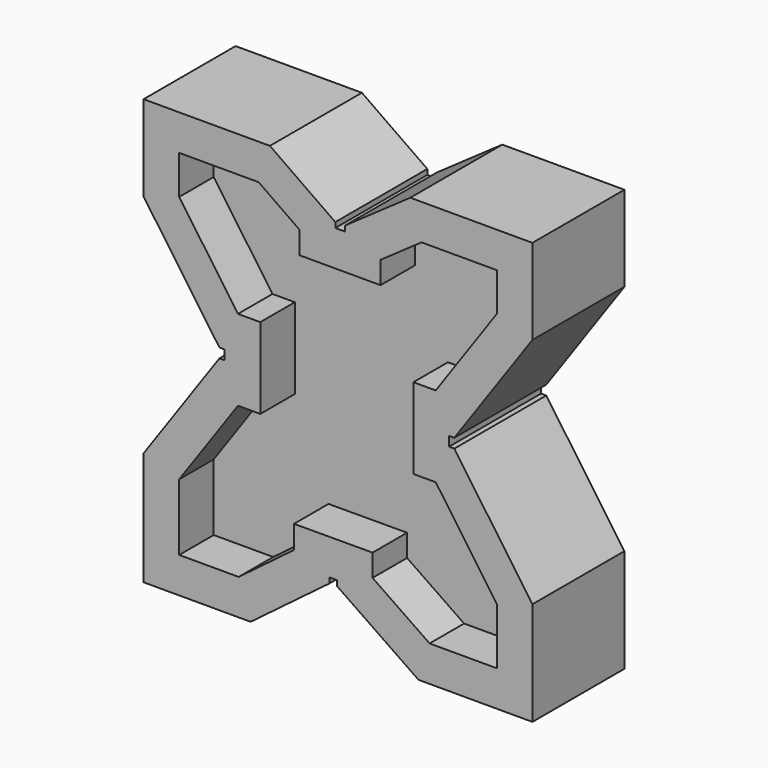
from build123d import *

# Parameters (mm, degrees)
F1_DEPTH = 25.4
F3_DEPTH = 19.05
F5_DEPTH = 19.05


with BuildPart() as f1:
    # F0 (on Front) → F1 (new body, symmetric)
    with BuildSketch(Plane.XZ):
        Polygon((0, 0), (0, 2.3114), (-28.900176, 22.547521), (-84.703976, 22.547521), (-84.703976, -15.298479), (-51.210209, -63.132535), (-48.898809, -63.132535), (-48.898809, -67.348935), (-51.210209, -67.348935), (-84.703976, -115.182991), (-84.703976, -165.322591), (-37.434576, -165.322591), (-2.503217, -138.999924), (-2.503217, -136.688524), (0.702485, -136.679767), (0.702485, -138.991167), (36.748776, -163.765096), (87.066176, -163.765096), (87.066176, -117.994296), (52.55259, -68.703787), (50.24119, -68.703787), (50.24119, -64.487387), (52.55259, -64.487387), (87.066176, -15.196879), (87.066176, 22.547521), (33.116576, 22.547521), (4.2164, 2.3114), (4.2164, 0), align=None)
    extrude(amount=F1_DEPTH, both=True)

    # F2 (on face) → F3 (cut)
    with BuildSketch(Plane.XZ.offset(25.4)):
        Polygon((-18.251217, -120.983487), (16.450485, -120.888687), (16.450485, -130.705743), (41.63866, -148.017096), (71.318176, -148.017096), (71.318176, -122.959621), (44.3547, -84.451787), (34.49319, -84.451787), (34.49319, -48.739387), (44.3547, -48.739387), (71.318176, -10.231554), (71.318176, 6.799521), (38.081901, 6.799521), (19.9644, -5.88649), (19.9644, -15.748), (-15.748, -15.748), (-15.748, -5.88649), (-33.865501, 6.799521), (-68.955976, 6.799521), (-68.955976, -10.333154), (-43.012319, -47.384535), (-33.150809, -47.384535), (-33.150809, -83.096935), (-43.012319, -83.096935), (-68.955976, -120.148316), (-68.955976, -149.574591), (-42.703783, -149.574591), (-18.251217, -131.148261), align=None)
    extrude(amount=-F3_DEPTH, mode=Mode.SUBTRACT)

    # F4 (on face) → F5 (cut)
    with BuildSketch(Plane(origin=(0, 25.4, 0), x_dir=(-1, 0, 0), z_dir=(0, 1, 0))):
        Polygon((-71.318176, -122.959621), (-71.318176, -148.017096), (-41.63866, -148.017096), (-16.450485, -130.705743), (-16.450485, -120.888687), (18.251217, -120.983487), (18.251217, -131.148261), (42.703783, -149.574591), (68.955976, -149.574591), (68.955976, -120.148316), (43.012319, -83.096935), (33.150809, -83.096935), (33.150809, -47.384535), (43.012319, -47.384535), (68.955976, -10.333154), (68.955976, 6.799521), (33.865501, 6.799521), (15.748, -5.88649), (15.748, -15.748), (-19.9644, -15.748), (-19.9644, -5.88649), (-38.081901, 6.799521), (-71.318176, 6.799521), (-71.318176, -10.231554), (-44.3547, -48.739387), (-34.49319, -48.739387), (-34.49319, -84.451787), (-44.3547, -84.451787), align=None)
    extrude(amount=-F5_DEPTH, mode=Mode.SUBTRACT)


solid = f1.part
